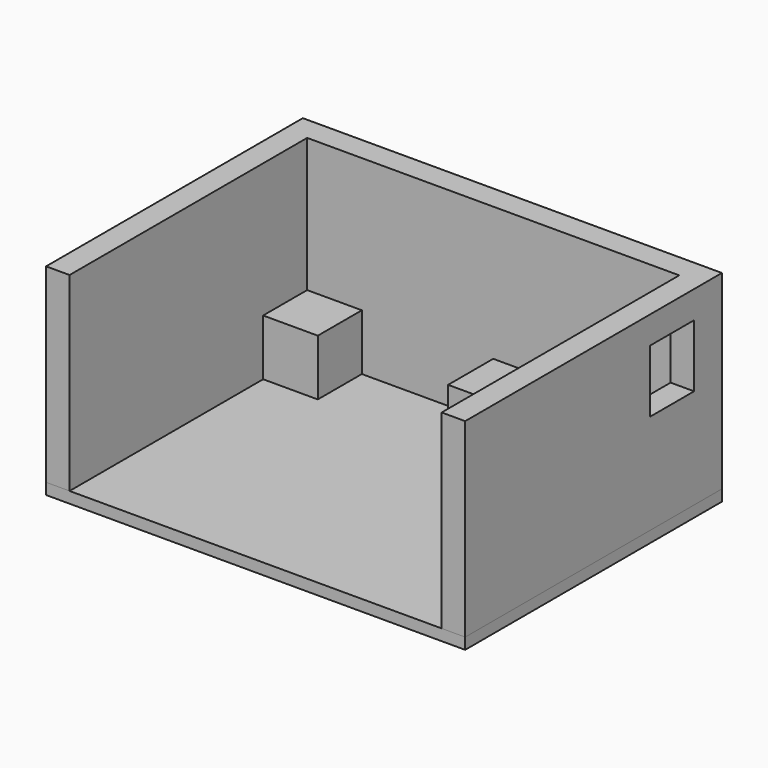
from build123d import *

# Parameters (mm, degrees)
F0_W      = 111.984528
F0_H      = 85.756578
F1_DEPTH  = 3
F2_W      = 6.280169
F2_H      = 6.403141
F2_W_2    = 99.42419
F2_H_2    = 79.353437
F3_DEPTH  = 50.8
F4_W      = 14.75576
F4_H      = 16.726847
F5_DEPTH  = 25.4
F6_W      = 15.188249
F6_H      = 15.062956
F7_DEPTH  = 15
F9_W      = 14.695715
F9_H      = 14.967857
F9_W_2    = 15.512146
F9_H_2    = 15.784284
F10_DEPTH = 15


with BuildPart() as f1:
    # F0 (on Top) → F1 (new body)
    with BuildSketch(Plane.XY):
        Rectangle(F0_W, F0_H)
    extrude(amount=F1_DEPTH)

    # F2 (on face) → F3 (join)
    with BuildSketch(Plane.XY.offset(3)):
        with Locations((-52.852179, 39.676718)):
            Rectangle(F2_W, F2_H)
        with Locations((0, 39.676718)):
            Rectangle(F2_W_2, F2_H)
        with Locations((-52.852179, -3.20157)):
            Rectangle(F2_W, F2_H_2)
        with Locations((52.852179, 39.676718)):
            Rectangle(F2_W, F2_H)
        with Locations((52.852179, -3.20157)):
            Rectangle(F2_W, F2_H_2)
    extrude(amount=F3_DEPTH)

    # F4 (on face) → F5 (cut)
    with BuildSketch(Plane.YZ.offset(55.992264)):
        with Locations((26.207732, 38.103093)):
            Rectangle(F4_W, F4_H)
    extrude(amount=-F5_DEPTH, mode=Mode.SUBTRACT)

    # F6 (on face) → F7 (join)
    with BuildSketch(Plane.XY.offset(3)):
        with Locations((7.594124, 28.94367)):
            Rectangle(F6_W, F6_H)
    extrude(amount=F7_DEPTH)

    # F9 (on face) → F10 (join)
    with BuildSketch(Plane.XY.offset(3)):
        with Locations((-42.454285, 29.255357)):
            Rectangle(F9_W, F9_H)
        with Locations((41.773926, 28.847144)):
            Rectangle(F9_W_2, F9_H_2)
    extrude(amount=F10_DEPTH)


solid = f1.part
